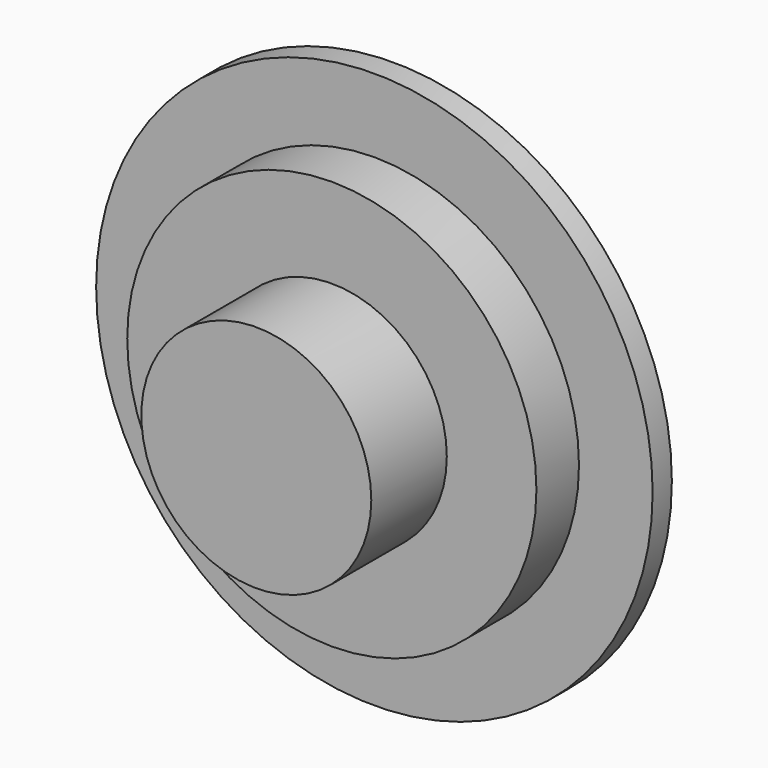
from build123d import *

# Parameters (mm, degrees)
F2_R     = 17.016537
F3_DEPTH = 25.4
F1_R     = 30.280081
F4_DEPTH = 11.43
F0_R     = 41.181284
F5_DEPTH = 3.556


with BuildPart() as f3:
    # F2 (on Front) → F3 (new body)
    with BuildSketch(Plane.XZ):
        Circle(F2_R)
    extrude(amount=F3_DEPTH)

    # F1 (on Front) → F4 (join)
    with BuildSketch(Plane.XZ):
        Circle(F1_R)
    extrude(amount=F4_DEPTH)

    # F0 (on Front) → F5 (join)
    with BuildSketch(Plane.XZ):
        Circle(F0_R)
    extrude(amount=F5_DEPTH)


solid = f3.part
